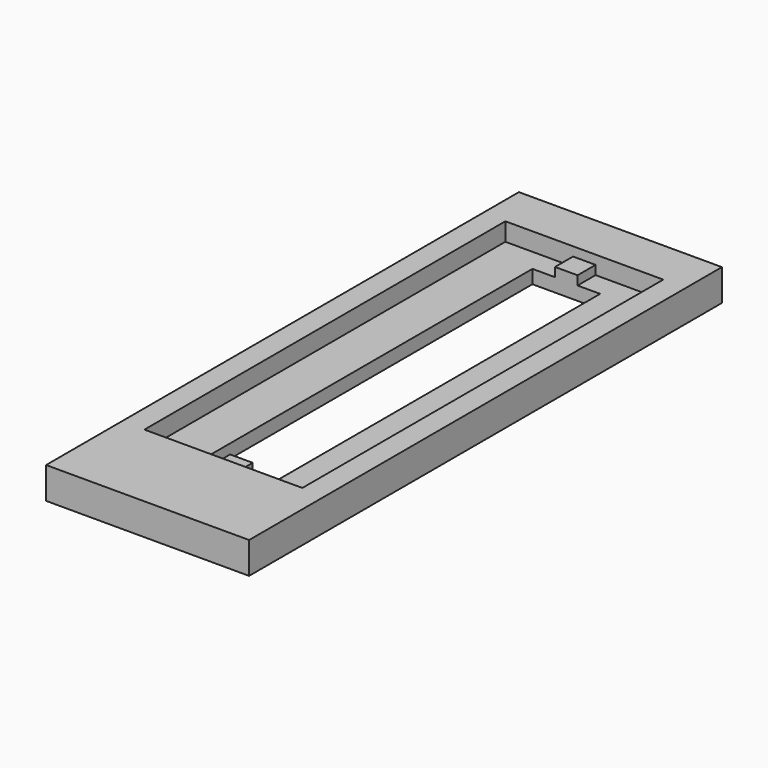
from build123d import *

# Parameters (mm, degrees)
F0_W     = 45
F0_H     = 131
F1_DEPTH = 2
F2_W     = 45
F2_H     = 131
F3_DEPTH = 5
F5_W     = 35
F5_H     = 100
F6_DEPTH = 4
F7_W     = 5
F7_H     = 100
F8_DEPTH = 2
F4_W     = 15
F4_H     = 90
F9_DEPTH = 7.001


with BuildPart() as f1:
    # F0 (on Top) → F1 (new body)
    with BuildSketch(Plane.XY):
        with Locations((22.5, 65.5)):
            Rectangle(F0_W, F0_H)
    extrude(amount=F1_DEPTH)

    # F2 (on face) → F3 (join)
    with BuildSketch(Plane.XY.offset(2)):
        with Locations((22.5, 65.5)):
            Rectangle(F2_W, F2_H)
    extrude(amount=F3_DEPTH)

    # F5 (on face) → F6 (cut)
    with BuildSketch(Plane.XY.offset(7)):
        with Locations((22.5, 71)):
            Rectangle(F5_W, F5_H)
    extrude(amount=-F6_DEPTH, mode=Mode.SUBTRACT)

    # F7 (on face) → F8 (join)
    with BuildSketch(Plane.XY.offset(3)):
        with Locations((22.5, 71)):
            Rectangle(F7_W, F7_H)
    extrude(amount=F8_DEPTH)

    # F4 (on face) → F9 (cut, through all)
    with BuildSketch(Plane.XY.offset(7)):
        with Locations((22.5, 71)):
            Rectangle(F4_W, F4_H)
    extrude(amount=-F9_DEPTH, mode=Mode.SUBTRACT)


solid = f1.part
